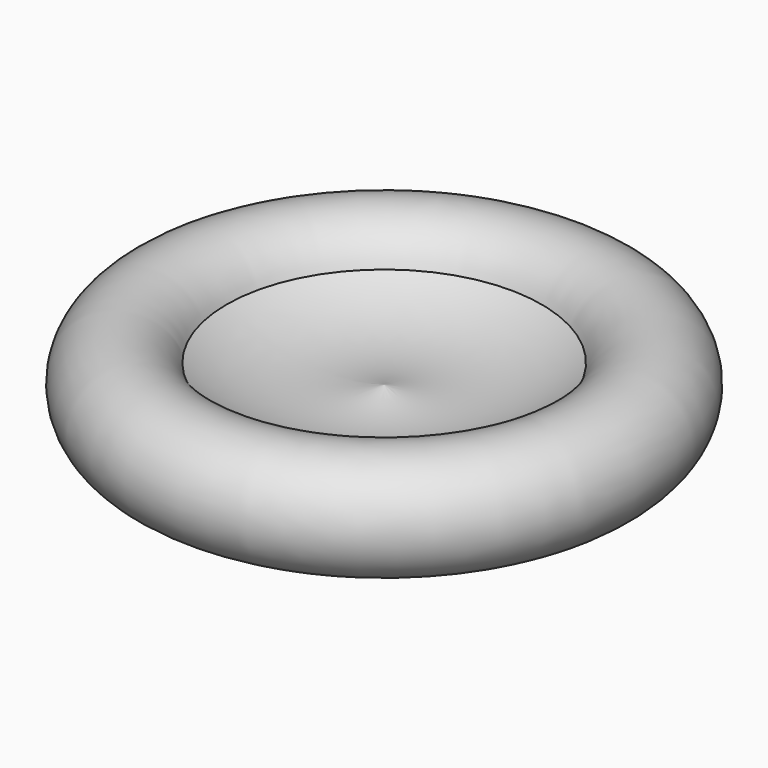
from build123d import *


with BuildPart() as f1:
    # F0 (on Front) → F1 (revolve)
    with BuildSketch(Plane.XZ):
        with BuildLine():
            Line((-20.296654, 0), (0, 0))
            Line((0, 0), (0, 5.29478))
            ThreePointArc((0, 5.29478), (-7.879198, 4.541519), (-15.345355, 7.169381))
            ThreePointArc((-15.345355, 7.169381), (-15.103615, 6.268803), (-15.022207, 5.339904))
            ThreePointArc((-15.022207, 5.339904), (-16.563133, 1.587093), (-20.296654, 0))
        make_face()
        with BuildLine():
            ThreePointArc((-15.345355, 7.169381), (-24.756752, 8.374638), (-20.296654, 0))
            ThreePointArc((-20.296654, 0), (-16.563133, 1.587093), (-15.022207, 5.339904))
            ThreePointArc((-15.022207, 5.339904), (-15.103615, 6.268803), (-15.345355, 7.169381))
        make_face()
    revolve(axis=Axis((0, 0, 2.64739), (0, 0, 1)))


solid = f1.part
